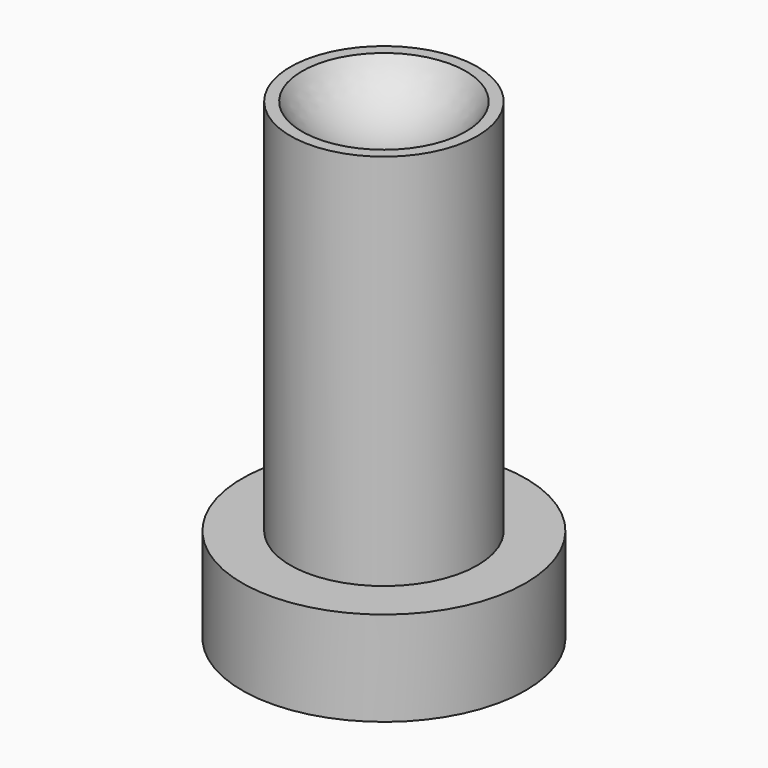
from build123d import *

# Parameters (mm, degrees)
F0_R     = 19.05
F1_DEPTH = 12.7
F2_R     = 12.573
F3_DEPTH = 50.8


with BuildPart() as f1:
    # F0 (on Top) → F1 (new body)
    with BuildSketch(Plane.XY):
        Circle(F0_R)
    extrude(amount=-F1_DEPTH)

    # F2 (on face) → F3 (join)
    with BuildSketch(Plane.XY):
        Circle(F2_R)
    extrude(amount=F3_DEPTH)

    # F4 (on Right) → F5 (revolve, cut)
    with BuildSketch(Plane.YZ):
        with BuildLine():
            ThreePointArc((0, 44.45), (6.35, 46.151477), (10.998523, 50.8))
            Line((10.998523, 50.8), (0, 50.8))
            Line((0, 50.8), (0, 44.45))
        make_face()
    revolve(axis=Axis((0, 0, 47.625), (0, 0, 1)), mode=Mode.SUBTRACT)


solid = f1.part
